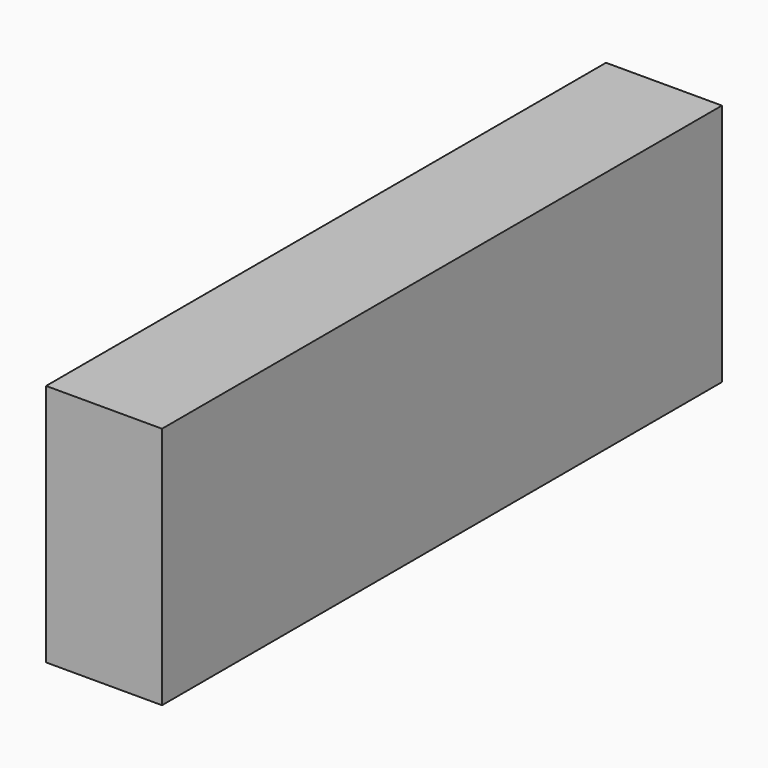
from build123d import *

# Parameters (mm, degrees)
SKETCH_W  = 115
SKETCH_H  = 40
PAD_DEPTH = 19.05


with BuildPart() as part:
    # Sketch → Pad (new body)
    with BuildSketch(Plane.YZ):
        with Locations((57.5, 20)):
            Rectangle(SKETCH_W, SKETCH_H)
    extrude(amount=PAD_DEPTH)


solid = part.part
